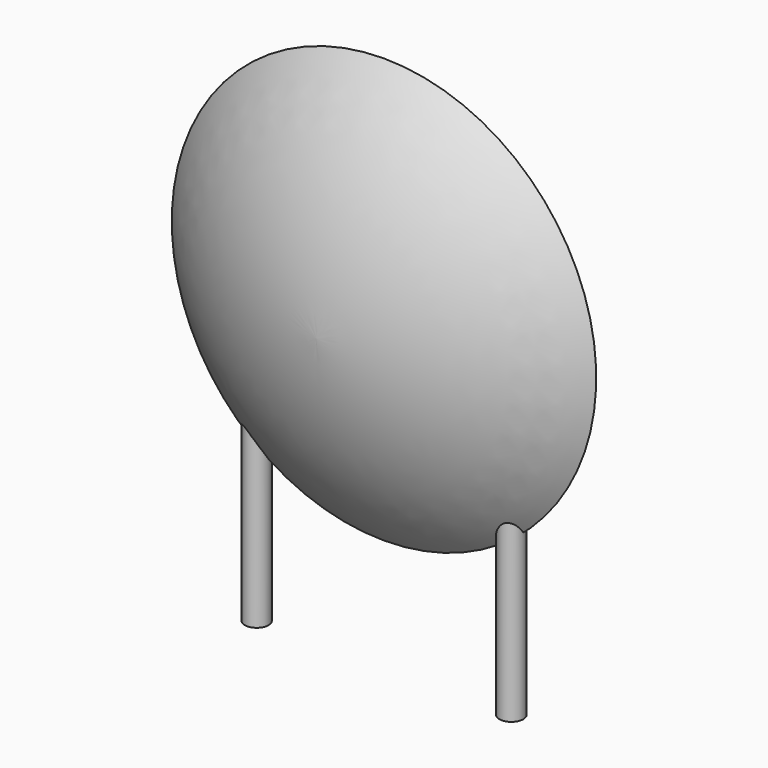
from build123d import *

# Parameters (mm, degrees)
SKETCH001_R       = 0.35
PAD001_DEPTH      = 2.5
PAD001_DEPTH_BACK = 3.2
SKETCH002_R       = 0.35
SKETCH003_R       = 0.35
SKETCH004_R       = 0.35
SKETCH005_R       = 0.35


with BuildPart() as pad001:
    # Sketch001 → Pad001 (new body, two sides)
    with BuildSketch(Plane.XY) as pad001_sk:
        Circle(SKETCH001_R)
        with Locations((7.5, 0)):
            Circle(SKETCH001_R)
    extrude(amount=PAD001_DEPTH)
    extrude(pad001_sk.sketch, amount=-PAD001_DEPTH_BACK)


with BuildPart() as revolution:
    # Sketch → Revolution (revolve)
    with BuildSketch(Plane.YZ.offset(3.75)):
        with BuildLine():
            Line((-2.5, 6.35), (2.5, 6.35))
            ThreePointArc((0, 0.1), (1.810113, 3.000955), (2.5, 6.35))
            ThreePointArc((-2.5, 6.35), (-1.810113, 3.000955), (0, 0.1))
        make_face()
    revolve(axis=Axis((3.75, -3.32079, 6.35), (0, 1, 0)))


with BuildPart() as loft_body:
    # Sketch002 → Loft section 0
    with BuildSketch(Plane.XY.offset(6.25)):
        with Locations((-1.25, 0)):
            Circle(SKETCH002_R)
    # Sketch003 → Loft section 1
    with BuildSketch(Plane.XY.offset(2.5)):
        Circle(SKETCH003_R)
    loft()


with BuildPart() as loft001:
    # Sketch004 → Loft001 section 0
    with BuildSketch(Plane.XY.offset(2.5)):
        with Locations((7.5, 0)):
            Circle(SKETCH004_R)
    # Sketch005 → Loft001 section 1
    with BuildSketch(Plane.XY.offset(6.25)):
        with Locations((8.75, 0)):
            Circle(SKETCH005_R)
    loft()


solid = Compound([pad001.part, revolution.part, loft_body.part, loft001.part])
